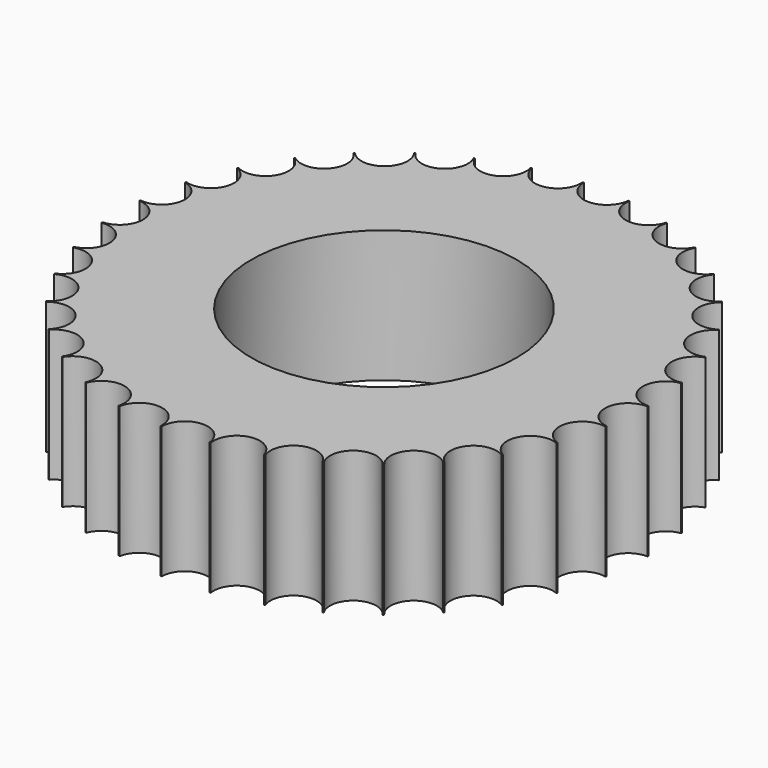
from build123d import *

# Parameters (mm, degrees)
F0_R     = 25.527
F1_DEPTH = 25.4


with BuildPart() as f1:
    # F0 (on Top) → F1 (new body)
    with BuildSketch(Plane.XY):
        with BuildLine():
            ThreePointArc((50.799873, -0.113378), (50.799968, -0.056689), (50.8, 0))
            ThreePointArc((50.8, 0), (50.799968, 0.056689), (50.799873, 0.113378))
            ThreePointArc((50.799873, 0.113378), (46.168388, 4.15523), (50.003743, 8.959112))
            ThreePointArc((50.003743, 8.959112), (49.983623, 9.07069), (49.963254, 9.182224))
            ThreePointArc((49.963254, 9.182224), (44.684498, 12.332138), (47.600451, 17.743648))
            ThreePointArc((47.600451, 17.743648), (47.560731, 17.849841), (47.520775, 17.955945))
            ThreePointArc((47.520775, 17.955945), (41.764412, 20.112681), (43.667242, 25.957889))
            ThreePointArc((43.667242, 25.957889), (43.609199, 26.055283), (43.550939, 26.152548))
            ThreePointArc((43.550939, 26.152548), (37.501983, 27.246785), (38.330531, 33.337822))
            ThreePointArc((38.330531, 33.337822), (38.25603, 33.423287), (38.181339, 33.508586))
            ThreePointArc((38.181339, 33.508586), (32.034209, 33.505156), (31.761846, 39.64625))
            ThreePointArc((31.761846, 39.64625), (31.673282, 39.717039), (31.584561, 39.78763))
            ThreePointArc((31.584561, 39.78763), (25.53683, 38.686643), (24.172308, 44.680415))
            ThreePointArc((24.172308, 44.680415), (24.072528, 44.734253), (23.972628, 44.787868))
            ThreePointArc((23.972628, 44.787868), (18.218675, 42.62471), (15.805853, 48.278515))
            ThreePointArc((15.805853, 48.278515), (15.698063, 48.313671), (15.590195, 48.348586))
            ThreePointArc((15.590195, 48.348586), (10.314958, 45.192783), (6.931385, 50.324903))
            ThreePointArc((6.931385, 50.324903), (6.81905, 50.340248), (6.706681, 50.355342))
            ThreePointArc((6.706681, 50.355342), (2.079709, 46.308324), (-2.165864, 50.753808))
            ThreePointArc((-2.165864, 50.753808), (-2.279133, 50.748848), (-2.392392, 50.743635))
            ThreePointArc((-2.392392, 50.743635), (-2.378638, 50.54215), (-2.37405, 50.340248))
            ThreePointArc((-2.37405, 50.340248), (-6.423073, 45.912921), (-11.1935, 49.551444))
            ThreePointArc((-11.1935, 49.551444), (-11.304063, 49.526338), (-11.414571, 49.500986))
            ThreePointArc((-11.414571, 49.500986), (-11.293625, 48.912796), (-11.253063, 48.313671))
            ThreePointArc((-11.253063, 48.313671), (-14.906818, 43.939662), (-19.861368, 46.756455))
            ThreePointArc((-19.861368, 46.756455), (-19.965672, 46.712011), (-20.069876, 46.667334))
            ThreePointArc((-20.069876, 46.667334), (-19.739526, 45.725776), (-19.627528, 44.734253))
            ThreePointArc((-19.627528, 44.734253), (-22.892385, 40.448779), (-27.890875, 42.458675))
            ThreePointArc((-27.890875, 42.458675), (-27.985567, 42.396321), (-28.080119, 42.333756))
            ThreePointArc((-28.080119, 42.333756), (-27.446603, 41.092978), (-27.228282, 39.717039))
            ThreePointArc((-27.228282, 39.717039), (-30.113743, 35.554604), (-35.023946, 36.796239))
            ThreePointArc((-35.023946, 36.796239), (-35.105983, 36.717979), (-35.187844, 36.639536))
            ThreePointArc((-35.187844, 36.639536), (-34.169705, 35.172564), (-33.81103, 33.423287))
            ThreePointArc((-33.81103, 33.423287), (-36.329652, 29.417405), (-41.031319, 29.951141))
            ThreePointArc((-41.031319, 29.951141), (-41.098063, 29.859491), (-41.164603, 29.767692))
            ThreePointArc((-41.164603, 29.767692), (-39.696127, 28.163813), (-39.164199, 26.055283))
            ThreePointArc((-39.164199, 26.055283), (-41.331491, 22.238207), (-45.719912, 22.143389))
            ThreePointArc((-45.719912, 22.143389), (-45.769218, 22.041294), (-45.818297, 21.939089))
            ThreePointArc((-45.818297, 21.939089), (-43.85242, 20.300648), (-43.115731, 17.849841))
            ThreePointArc((-43.115731, 17.849841), (-44.950033, 14.252303), (-48.939029, 13.62393))
            ThreePointArc((-48.939029, 13.62393), (-48.969313, 13.514672), (-48.999354, 13.405346))
            ThreePointArc((-48.999354, 13.405346), (-46.509929, 11.844041), (-45.538623, 9.07069))
            ThreePointArc((-45.538623, 9.07069), (-47.060954, 5.721656), (-50.585205, 4.666587))
            ThreePointArc((-50.585205, 4.666587), (-50.595494, 4.553677), (-50.605531, 4.440744))
            ThreePointArc((-50.605531, 4.440744), (-47.588891, 3.073566), (-46.355, 0))
            ThreePointArc((-46.355, 0), (-47.588891, -3.073566), (-50.605531, -4.440744))
            ThreePointArc((-50.605531, -4.440744), (-50.595494, -4.553677), (-50.585205, -4.666587))
            ThreePointArc((-50.585205, -4.666587), (-47.060954, -5.721656), (-45.538623, -9.07069))
            ThreePointArc((-45.538623, -9.07069), (-46.509929, -11.844041), (-48.999354, -13.405346))
            ThreePointArc((-48.999354, -13.405346), (-48.969313, -13.514672), (-48.939029, -13.62393))
            ThreePointArc((-48.939029, -13.62393), (-44.950033, -14.252303), (-43.115731, -17.849841))
            ThreePointArc((-43.115731, -17.849841), (-43.85242, -20.300648), (-45.818297, -21.939089))
            ThreePointArc((-45.818297, -21.939089), (-45.769218, -22.041294), (-45.719912, -22.143389))
            ThreePointArc((-45.719912, -22.143389), (-41.331491, -22.238207), (-39.164199, -26.055283))
            ThreePointArc((-39.164199, -26.055283), (-39.696127, -28.163813), (-41.164603, -29.767692))
            ThreePointArc((-41.164603, -29.767692), (-41.098063, -29.859491), (-41.031319, -29.951141))
            ThreePointArc((-41.031319, -29.951141), (-36.329652, -29.417405), (-33.81103, -33.423287))
            ThreePointArc((-33.81103, -33.423287), (-34.169705, -35.172564), (-35.187844, -36.639536))
            ThreePointArc((-35.187844, -36.639536), (-35.105983, -36.717979), (-35.023946, -36.796239))
            ThreePointArc((-35.023946, -36.796239), (-30.113743, -35.554604), (-27.228282, -39.717039))
            ThreePointArc((-27.228282, -39.717039), (-27.446603, -41.092978), (-28.080119, -42.333756))
            ThreePointArc((-28.080119, -42.333756), (-27.985567, -42.396321), (-27.890875, -42.458675))
            ThreePointArc((-27.890875, -42.458675), (-22.892385, -40.448779), (-19.627528, -44.734253))
            ThreePointArc((-19.627528, -44.734253), (-19.739526, -45.725776), (-20.069876, -46.667334))
            ThreePointArc((-20.069876, -46.667334), (-19.965672, -46.712011), (-19.861368, -46.756455))
            ThreePointArc((-19.861368, -46.756455), (-14.906818, -43.939662), (-11.253063, -48.313671))
            ThreePointArc((-11.253063, -48.313671), (-11.293625, -48.912796), (-11.414571, -49.500986))
            ThreePointArc((-11.414571, -49.500986), (-11.304063, -49.526338), (-11.1935, -49.551444))
            ThreePointArc((-11.1935, -49.551444), (-6.423073, -45.912921), (-2.37405, -50.340248))
            ThreePointArc((-2.37405, -50.340248), (-2.378638, -50.54215), (-2.392392, -50.743635))
            ThreePointArc((-2.392392, -50.743635), (-2.279133, -50.748848), (-2.165864, -50.753808))
            ThreePointArc((-2.165864, -50.753808), (2.079709, -46.308324), (6.706681, -50.355342))
            ThreePointArc((6.706681, -50.355342), (6.81905, -50.340248), (6.931385, -50.324903))
            ThreePointArc((6.931385, -50.324903), (10.314958, -45.192783), (15.590195, -48.348586))
            ThreePointArc((15.590195, -48.348586), (15.698063, -48.313671), (15.805853, -48.278515))
            ThreePointArc((15.805853, -48.278515), (18.218675, -42.62471), (23.972628, -44.787868))
            ThreePointArc((23.972628, -44.787868), (24.072528, -44.734253), (24.172308, -44.680415))
            ThreePointArc((24.172308, -44.680415), (25.53683, -38.686643), (31.584561, -39.78763))
            ThreePointArc((31.584561, -39.78763), (31.673282, -39.717039), (31.761846, -39.64625))
            ThreePointArc((31.761846, -39.64625), (32.034209, -33.505156), (38.181339, -33.508586))
            ThreePointArc((38.181339, -33.508586), (38.25603, -33.423287), (38.330531, -33.337822))
            ThreePointArc((38.330531, -33.337822), (37.501983, -27.246785), (43.550939, -26.152548))
            ThreePointArc((43.550939, -26.152548), (43.609199, -26.055283), (43.667242, -25.957889))
            ThreePointArc((43.667242, -25.957889), (41.764412, -20.112681), (47.520775, -17.955945))
            ThreePointArc((47.520775, -17.955945), (47.560731, -17.849841), (47.600451, -17.743648))
            ThreePointArc((47.600451, -17.743648), (44.684498, -12.332138), (49.963254, -9.182224))
            ThreePointArc((49.963254, -9.182224), (49.983623, -9.07069), (50.003743, -8.959112))
            ThreePointArc((50.003743, -8.959112), (46.168388, -4.15523), (50.799873, -0.113378))
        make_face()
        Circle(F0_R, mode=Mode.SUBTRACT)
    extrude(amount=F1_DEPTH)


solid = f1.part
